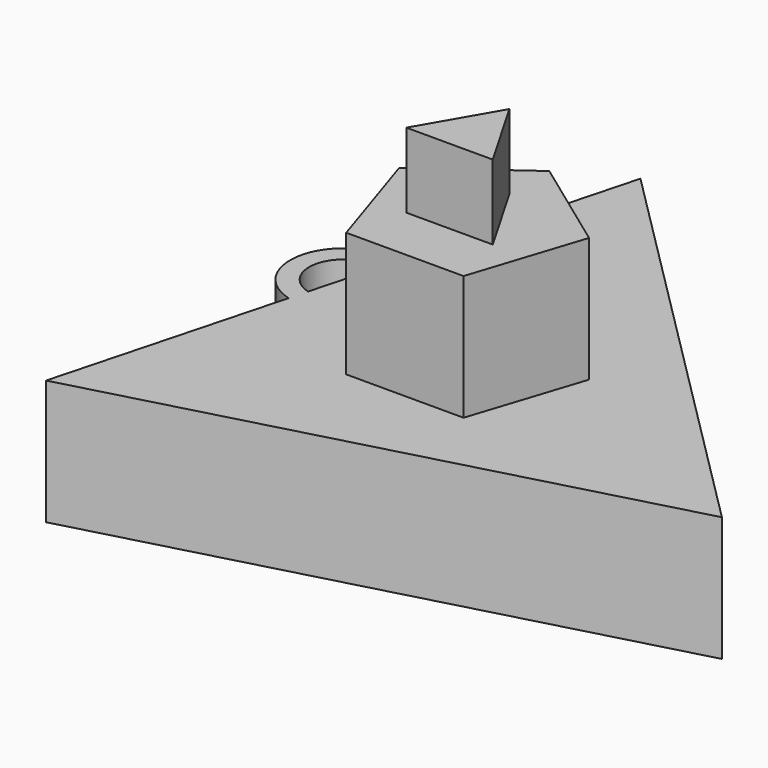
from build123d import *

# Parameters (mm, degrees)
F1_DEPTH = 6.35
F3_DEPTH = 6.35
F5_DEPTH = 3.81
F6_R     = 2.694583
F6_R_2   = 1.7341
F7_DEPTH = 6.35


with BuildPart() as f1:
    # F0 (on Top) → F1 (new body)
    with BuildSketch(Plane.XY):
        Polygon((16.356344, -4.382671), (-4.382668, 16.356344), (-11.973676, -11.973674), align=None)
    extrude(amount=F1_DEPTH)

    # F2 (on face) → F3 (join)
    with BuildSketch(Plane.XY.offset(6.35)):
        Polygon((-2.985949, -4.109806), (2.985949, -4.109806), (4.831367, 1.569806), (0, 5.08), (-4.831367, 1.569806), align=None)
    extrude(amount=F3_DEPTH)

    # F4 (on face) → F5 (join)
    with BuildSketch(Plane.XY.offset(12.7)):
        Polygon((-2.199705, -1.27), (2.199705, -1.27), (0, 2.54), align=None)
    extrude(amount=F5_DEPTH)

    # F6 (on face) → F7 (join)
    with BuildSketch(Plane.XY.offset(6.35)):
        with Locations((-8.178172, 2.191335)):
            Circle(F6_R)
        with Locations((-8.178172, 2.191335)):
            Circle(F6_R_2, mode=Mode.SUBTRACT)
    extrude(amount=-F7_DEPTH)


solid = f1.part
